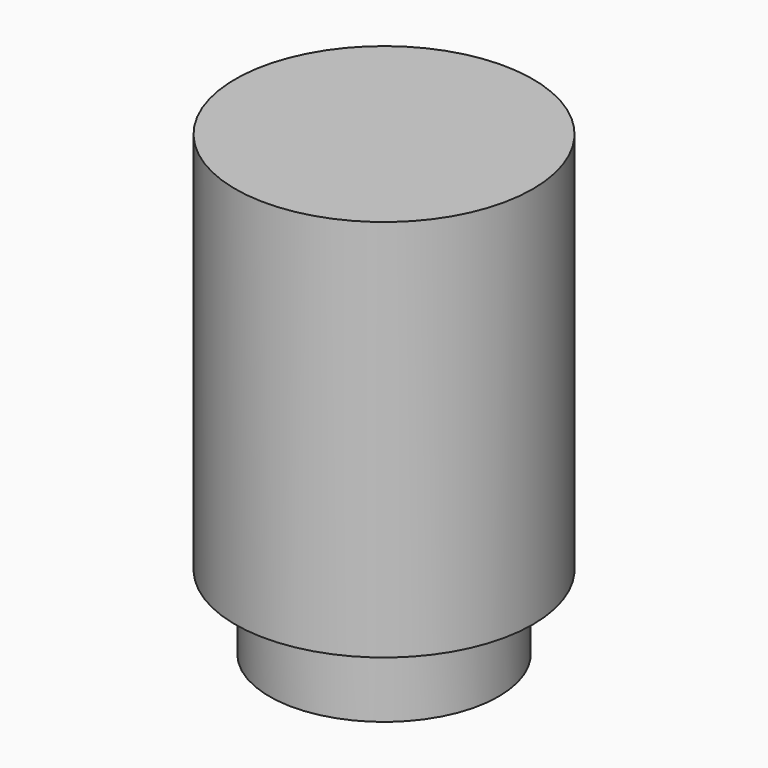
from build123d import *

# Parameters (mm, degrees)
F0_R     = 44.359293
F1_DEPTH = 114.3
F2_R     = 34.168515
F3_DEPTH = 10.16
F4_R     = 34.168515
F5_DEPTH = 12.047837


with BuildPart() as f1:
    # F0 (on Top) → F1 (new body)
    with BuildSketch(Plane.XY):
        Circle(F0_R)
    extrude(amount=F1_DEPTH)

    # F2 (on face) → F3 (join)
    with BuildSketch(Plane(origin=(0, 0, 0), x_dir=(1, 0, 0), z_dir=(0, 0, -1))):
        Circle(F2_R)
    extrude(amount=F3_DEPTH)

    # F4 (on face) → F5 (join)
    with BuildSketch(Plane(origin=(0, 0, -10.16), x_dir=(1, 0, 0), z_dir=(0, 0, -1))):
        Circle(F4_R)
    extrude(amount=F5_DEPTH)


solid = f1.part
